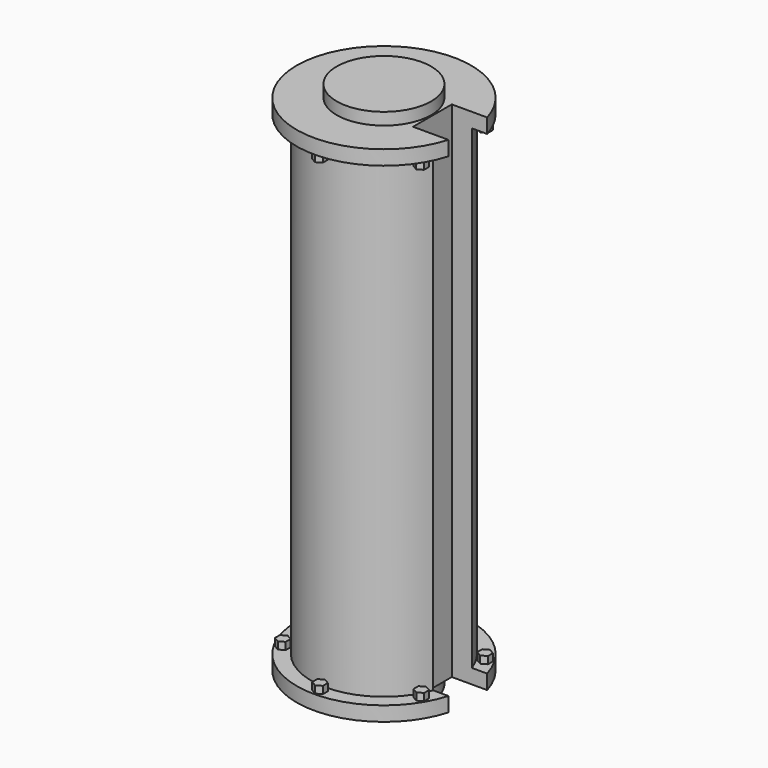
from build123d import *

# Parameters (mm, degrees)
SKETCH_R              = 15
PAD_DEPTH             = 98
SKETCH002_R           = 18
PAD002_DEPTH          = 3
SKETCH005_R           = 18
PAD004_DEPTH          = 3
SKETCH004_R           = 9.75
PAD005_DEPTH          = 2.5
SKETCH001_R           = 9.75
PAD006_DEPTH          = 2.5
SKETCH003_W           = 8
SKETCH003_H           = 10
POCKET_DEPTH          = 108
PAD007_DEPTH          = 1.5
PAD008_DEPTH          = 1.5
POLARPATTERN_COUNT    = 6
POLARPATTERN001_COUNT = 6


with BuildPart() as part:
    # Sketch → Pad (new body)
    with BuildSketch(Plane.XY):
        Circle(SKETCH_R)
    extrude(amount=PAD_DEPTH)

    # Sketch002 → Pad002 (join)
    with BuildSketch(Plane(origin=(0, 0, 0), x_dir=(1, 0, 0), z_dir=(0, 0, -1))):
        Circle(SKETCH002_R)
    extrude(amount=PAD002_DEPTH)

    # Sketch005 → Pad004 (join)
    with BuildSketch(Plane.XY.offset(98)):
        Circle(SKETCH005_R)
    extrude(amount=PAD004_DEPTH)

    # Sketch004 (on Face3 of Pad002) → Pad005 (join)
    with BuildSketch(Plane(origin=(0, 0, -3), x_dir=(1, 0, 0), z_dir=(0, 0, -1))):
        Circle(SKETCH004_R)
    extrude(amount=PAD005_DEPTH)

    # Sketch001 (on Face3 of Pad004) → Pad006 (join)
    with BuildSketch(Plane.XY.offset(101)):
        Circle(SKETCH001_R)
    extrude(amount=PAD006_DEPTH)

    # Sketch003 (on Face11 of Pad006) → Pocket (cut)
    with BuildSketch(Plane(origin=(0, 0, -5.5), x_dir=(1, 0, 0), z_dir=(0, 0, -1))):
        with Locations((14, 0)):
            Rectangle(SKETCH003_W, SKETCH003_H)
    extrude(amount=-POCKET_DEPTH, mode=Mode.SUBTRACT)

    # Sketch010 (on Face9 of Pocket) → Pad007 (join)
    with BuildSketch(Plane.XY):
        Polygon((-1.11579, 17.121659), (-0.012041, 17.758909), (1.091708, 17.121659), (1.091708, 15.84716), (-0.012041, 15.209911), (-1.11579, 15.84716), align=None)
    pad007 = extrude(amount=PAD007_DEPTH)

    # Sketch014 (on Face2 of Pad007) → Pad008 (join)
    with BuildSketch(Plane(origin=(0, 0, 98), x_dir=(1, 0, 0), z_dir=(0, 0, -1))):
        Polygon((-1.11579, 17.121659), (-0.012041, 17.758909), (1.091708, 17.121659), (1.091708, 15.84716), (-0.012041, 15.209911), (-1.11579, 15.84716), align=None)
    pad008 = extrude(amount=PAD008_DEPTH)

    # PolarPattern: Pad008 ×6 about axis
    polarpattern_axis = Axis((0, 0, 98), (0, 0, -1))
    for i in range(1, POLARPATTERN_COUNT):
        add(pad008.rotate(polarpattern_axis, i * 360 / POLARPATTERN_COUNT))

    # PolarPattern001: Pad007 ×6 about axis
    polarpattern001_axis = Axis((0, 0, 0), (0, 0, 1))
    for i in range(1, POLARPATTERN001_COUNT):
        add(pad007.rotate(polarpattern001_axis, i * 360 / POLARPATTERN001_COUNT))


solid = part.part
